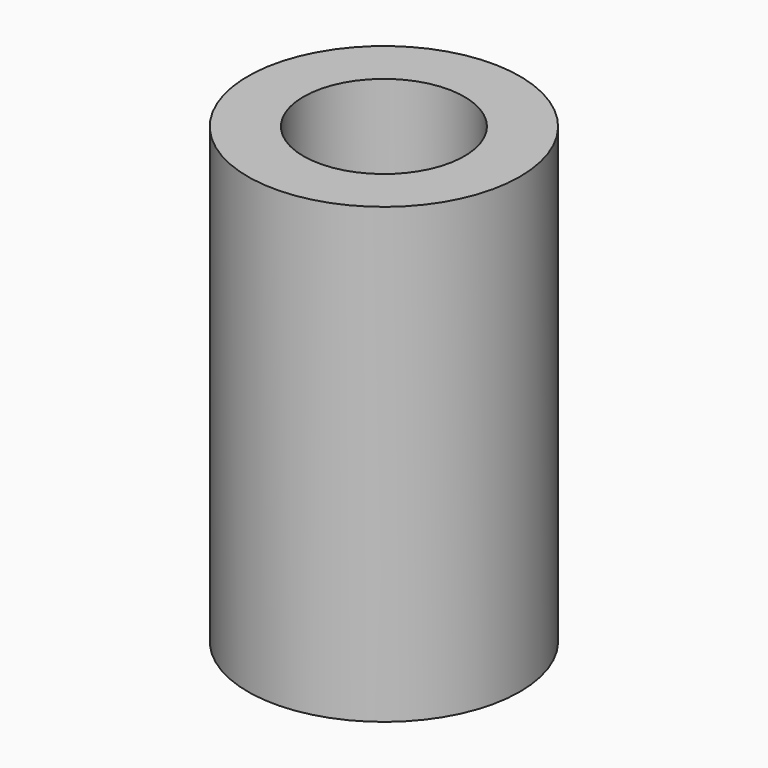
from build123d import *

# Parameters (mm, degrees)
F0_R     = 6
F1_DEPTH = 20
F3_D     = 7.1
F3_DEPTH = 17
F3_TIP   = 2.1330551975


with BuildPart() as f1:
    # F0 (on Top) → F1 (new body)
    with BuildSketch(Plane.XY):
        with Locations((-44.4919764996, 22.2874153405)):
            Circle(F0_R)
    extrude(amount=F1_DEPTH)

    # F3
    with Locations(Plane.XY.offset(20)):
        with Locations((-44.4919764996, 22.2874153405)):
            Hole(F3_D / 2, depth=F3_DEPTH)
            with Locations((0, 0, -(F3_DEPTH + F3_TIP / 2))):  # 118° drill point
                Cone(0, F3_D / 2, F3_TIP, mode=Mode.SUBTRACT)


solid = f1.part
